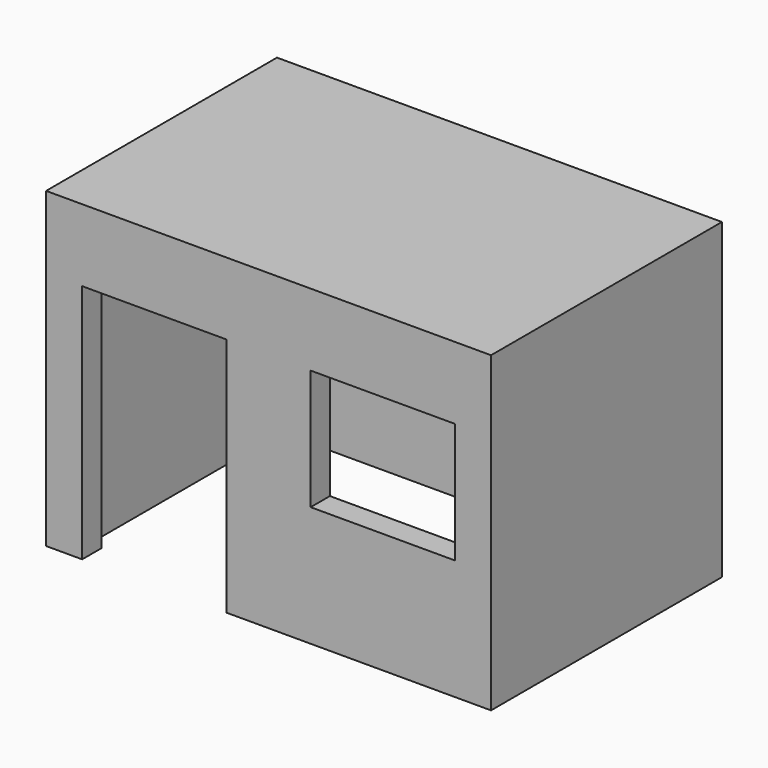
from build123d import *

# Parameters (mm, degrees)
F0_W     = 3700
F0_H     = 2400
F0_W_2   = 3300
F0_H_2   = 2000
F1_DEPTH = 2500
F2_W     = 3700
F2_H     = 2400
F3_DEPTH = 100
F4_W     = 1200
F4_H     = 2000
F4_H_2   = 1000
F5_DEPTH = 200


with BuildPart() as f1:
    # F0 (on Top) → F1 (new body)
    with BuildSketch(Plane.XY):
        Rectangle(F0_W, F0_H)
        Rectangle(F0_W_2, F0_H_2, mode=Mode.SUBTRACT)
    extrude(amount=F1_DEPTH)

    # F2 (on face) → F3 (join)
    with BuildSketch(Plane.XY.offset(2500)):
        Rectangle(F2_W, F2_H)
    extrude(amount=F3_DEPTH)

    # F4 (on face) → F5 (cut, through all)
    with BuildSketch(Plane.XZ.offset(1200)):
        with Locations((-950, 1000)):
            Rectangle(F4_W, F4_H)
        with Locations((950, 1500)):
            Rectangle(F4_W, F4_H_2)
    extrude(amount=-F5_DEPTH, mode=Mode.SUBTRACT)


solid = f1.part
